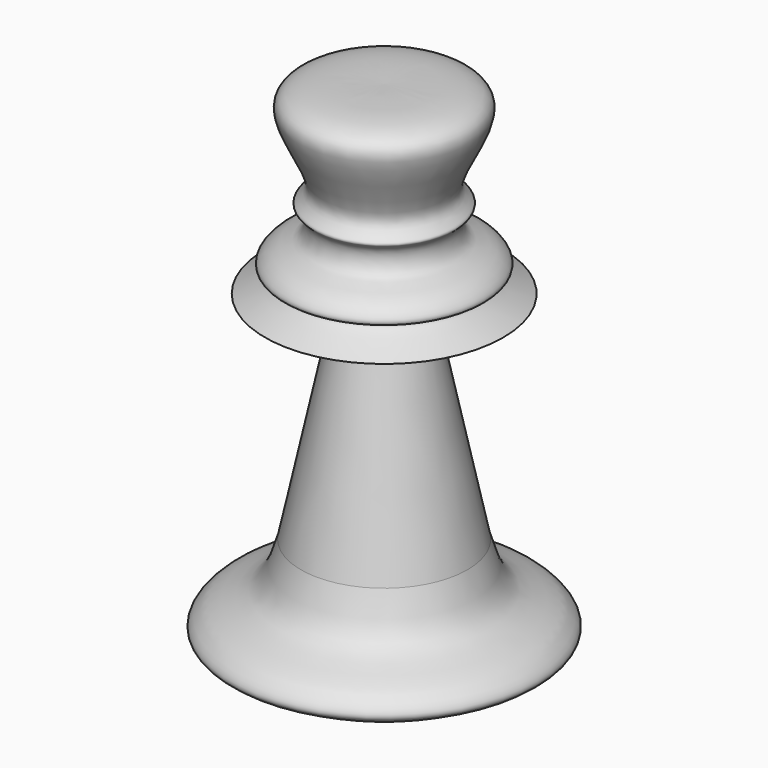
from build123d import *


with BuildPart() as f1:
    # F0 (on Front) → F1 (revolve)
    with BuildSketch(Plane.XZ):
        with BuildLine():
            add(Edge.make_bspline(
                [(19.8019649833, 10.6449862942), (17.2278522171, 11.950115808), (13.1988809682, 13.9928892855), (17.770553544, 14.436986316), (14.732417658, 17.9968376773), (10.5746458674, 18.2350814755), (9.9401194287, 22.7813863513), (12.8369235363, 23.9381696013), (7.4561085494, 26.3545307227), (20.1480101092, 41.7725636864), (6.8801344487, 41.4751053954), (0, 41.3208566606)],
                knots=[0, 0, 0, 0, 0.1211020359, 0.1895474928, 0.2784490699, 0.3804030376, 0.4741755399, 0.5415428401, 0.6285848491, 0.8074005033, 1, 1, 1, 1], degree=3))
            Line((0, 41.3208566606), (0, -40.6943745911))
            Line((0, -40.6943745911), (21.8627881259, -40.6943745911))
            add(Edge.make_bspline(
                [(21.8627881259, -40.6943745911), (22.5147940648, -40.3455343738), (23.791791764, -39.6623072307), (26.1846513807, -38.4018274852), (24.5458507385, -36.0381178192), (21.918660732, -34.33894779), (15.9833139309, -32.8371077712), (14.5972432203, -27.9377102295), (13.8499289751, -25.2961497754)],
                knots=[0, 0, 0, 0, 0.1343802452, 0.2631927928, 0.3921371883, 0.5513172871, 0.7580881117, 1, 1, 1, 1], degree=3))
            Line((13.8499289751, -25.2961497754), (6.2954206951, 10.6449862942))
            Line((6.2954206951, 10.6449862942), (19.8019649833, 10.6449862942))
        make_face()
    revolve(axis=Axis((0, 0, 0), (0, 0, -1)))


solid = f1.part
